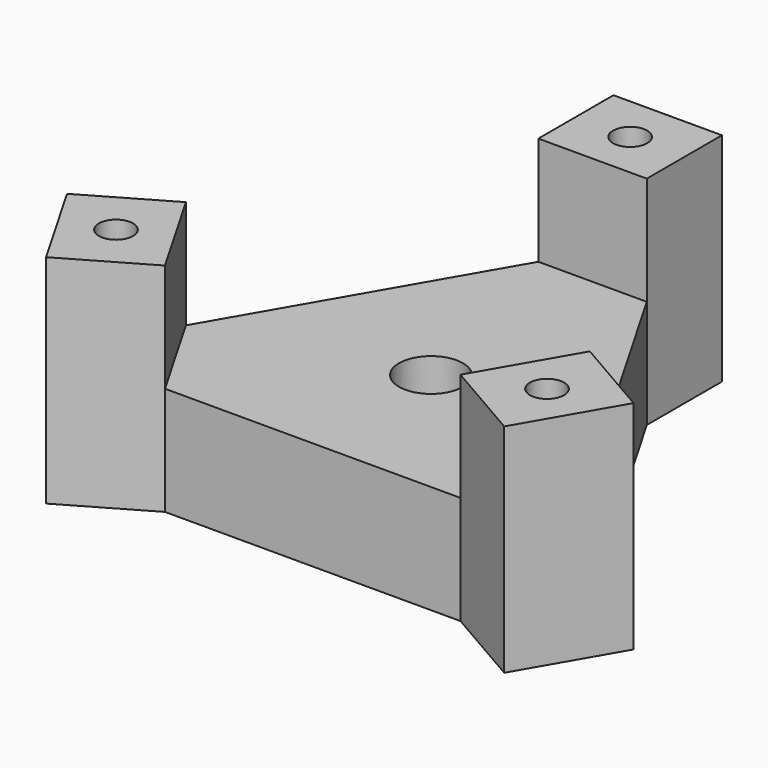
from build123d import *

# Parameters (mm, degrees)
F1_DEPTH = 25.4
F3_DEPTH = 25.4
F4_DEPTH = 25.4
F5_R     = 4
F6_DEPTH = 38.1
F7_R     = 7.5
F8_DEPTH = 254


with BuildPart() as f1:
    # F0 (on Top) → F1 (new body)
    with BuildSketch(Plane.XY):
        Polygon((0, 103.923048), (-60, 0), (60, 0), align=None)
    extrude(amount=F1_DEPTH)

    # F2 (on face) → F3 (join)
    with BuildSketch(Plane.XY.offset(25.4)):
        Polygon((12.7, 103.923048), (0, 103.923048), (12.7, 81.926003), align=None)
        Polygon((66.35, 10.998523), (47.3, 21.997045), (60, 0), align=None)
        Polygon((-60, 0), (-47.3, 21.997045), (-66.35, 10.998523), align=None)
        Polygon((-53.65, -10.998523), (-34.6, 0), (-60, 0), align=None)
        Polygon((12.7, 81.926003), (0, 103.923048), (-12.7, 81.926003), align=None)
        Polygon((60, 0), (47.3, 21.997045), (34.6, 0), align=None)
        Polygon((-34.6, 0), (-47.3, 21.997045), (-60, 0), align=None)
        Polygon((60, 0), (34.6, 0), (53.65, -10.998523), align=None)
        Polygon((-12.7, 81.926003), (0, 103.923048), (-12.7, 103.923048), align=None)
    extrude(amount=F3_DEPTH)

    # F2 (on face) → F4 (join)
    with BuildSketch(Plane.XY.offset(25.4)):
        Polygon((12.7, 103.923048), (0, 103.923048), (-12.7, 103.923048), (-12.7, 81.926003), (12.7, 81.926003), align=None)
        Polygon((53.65, -10.998523), (60, 0), (66.35, 10.998523), (47.3, 21.997045), (34.6, 0), align=None)
        Polygon((-66.35, 10.998523), (-60, 0), (-53.65, -10.998523), (-34.6, 0), (-47.3, 21.997045), align=None)
    extrude(amount=-F4_DEPTH)

    # F5 (on face) → F6 (cut)
    with BuildSketch(Plane.XY.offset(50.8)):
        with Locations((0, 92.924526)):
            Circle(F5_R)
        with Locations((-50.475, 5.499261)):
            Circle(F5_R)
        with Locations((50.475, 5.499261)):
            Circle(F5_R)
    extrude(amount=-F6_DEPTH, mode=Mode.SUBTRACT)

    # F7 (on face) → F8 (cut)
    with BuildSketch(Plane.XY.offset(50.8)):
        with Locations((0, 34.641016)):
            Circle(F7_R)
    extrude(amount=-F8_DEPTH, mode=Mode.SUBTRACT)


solid = f1.part
